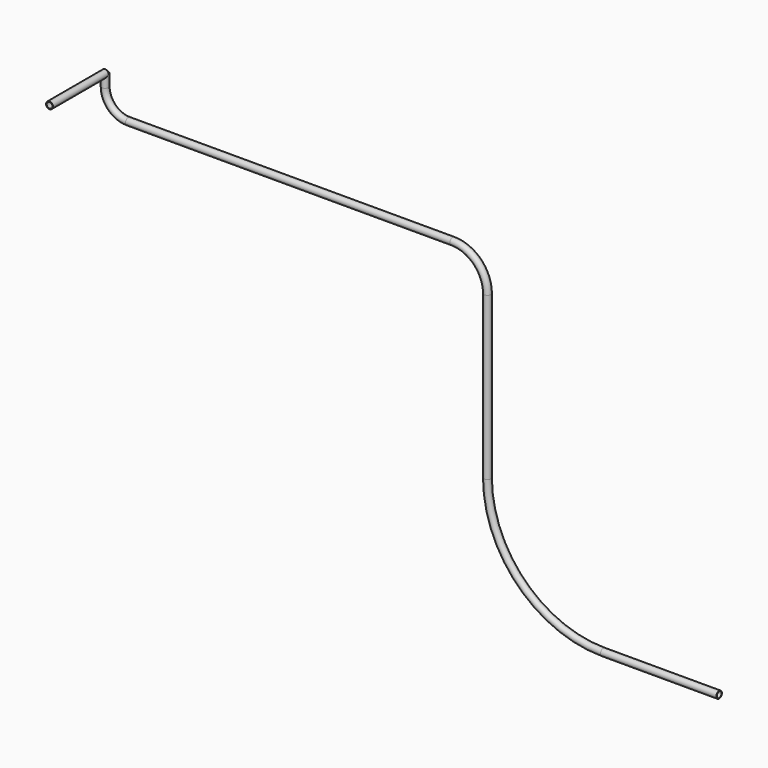
from build123d import *

# Parameters (mm, degrees)
F0_R     = 15
F0_R_2   = 12.5
F1_DEPTH = 300
F2_R     = 15
F2_R_2   = 12.5


with BuildPart() as f1:
    # F0 (on Front) → F1 (new body)
    with BuildSketch(Plane.XZ):
        Circle(F0_R)
        Circle(F0_R_2, mode=Mode.SUBTRACT)
    extrude(amount=F1_DEPTH)

    # F4: sweep along a path in F3
    with BuildLine(Plane.XZ) as f4_path:
        Line((0, 0), (0, -50))
        ThreePointArc((0, -50), (29.289322, -120.710678), (100, -150))
        Line((100, -150), (1500, -150))
        ThreePointArc((1500, -150), (1606.066017, -193.933983), (1650, -300))
        Line((1650, -300), (1650, -1000))
        ThreePointArc((1650, -1000), (1796.446609, -1353.553391), (2150, -1500))
        Line((2150, -1500), (2650, -1500))
    # F2 (on Top) → F4 (sweep)
    with BuildSketch(Plane.XY):
        Circle(F2_R)
        Circle(F2_R_2, mode=Mode.SUBTRACT)
    sweep(path=f4_path.line)


solid = f1.part
